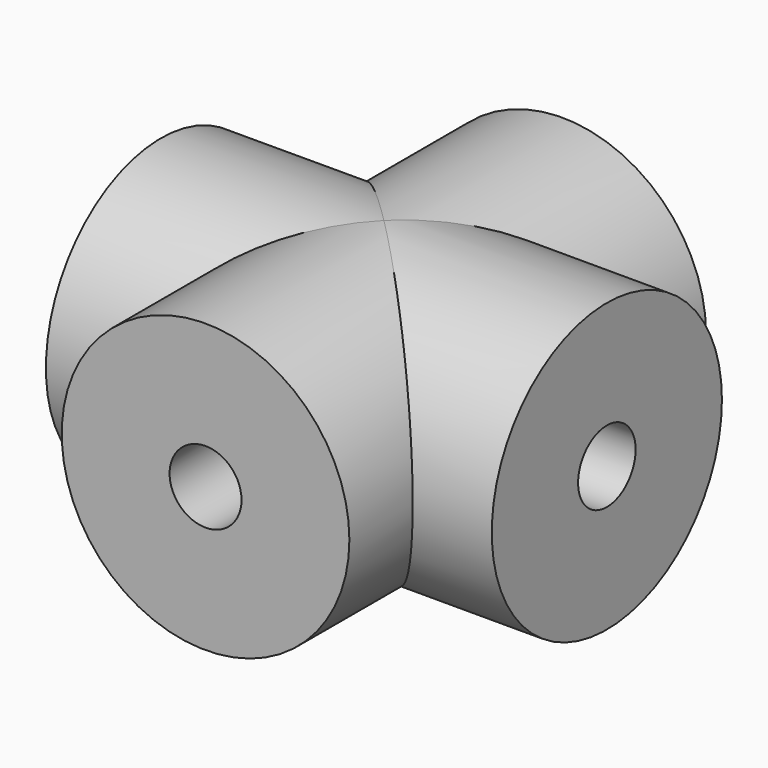
from build123d import *

# Parameters (mm, degrees)
F0_R     = 5
F1_DEPTH = 7.75
F2_R     = 1.25
F3_DEPTH = 25
F4_R     = 5
F5_DEPTH = 7.75
F6_R     = 1.25
F7_DEPTH = 25


with BuildPart() as f1:
    # F0 (on Front) → F1 (new body, symmetric)
    with BuildSketch(Plane.XZ):
        Circle(F0_R)
    extrude(amount=F1_DEPTH, both=True)

    # F2 (on face) → F3 (cut)
    with BuildSketch(Plane.XZ.offset(7.75)):
        Circle(F2_R)
    extrude(amount=-F3_DEPTH, mode=Mode.SUBTRACT)

    # F4 (on Right) → F5 (join, symmetric)
    with BuildSketch(Plane.YZ):
        Circle(F4_R)
    extrude(amount=F5_DEPTH, both=True)

    # F6 (on face) → F7 (cut)
    with BuildSketch(Plane.YZ.offset(7.75)):
        Circle(F6_R)
    extrude(amount=-F7_DEPTH, mode=Mode.SUBTRACT)


solid = f1.part
